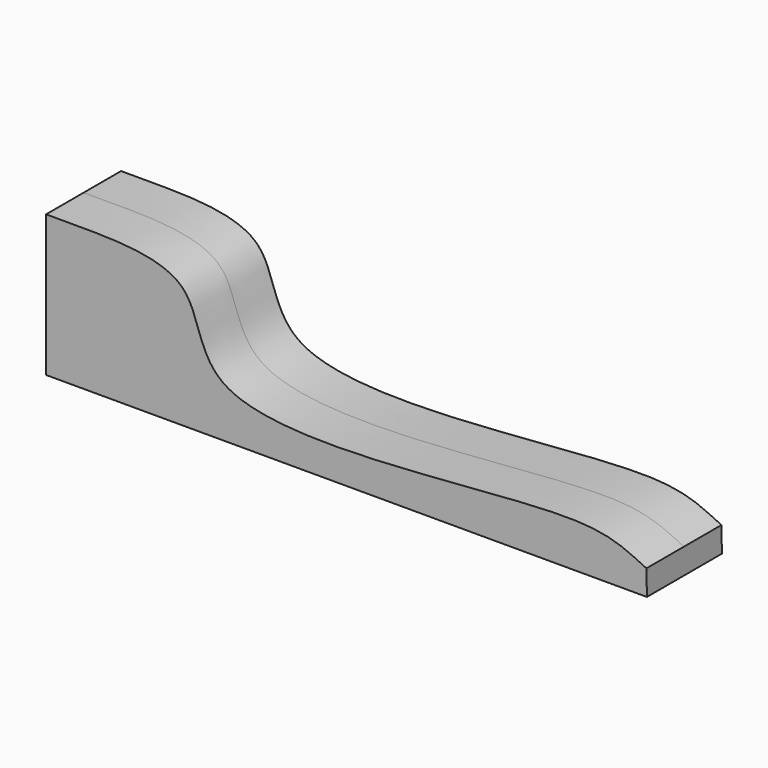
from build123d import *

# Parameters (mm, degrees)
F1_DEPTH = 22.225


with BuildPart() as f1:
    # F0 (on Front) → F1 (new body, symmetric)
    with BuildSketch(Plane.XZ):
        with BuildLine():
            Line((-145.4518437386, 46.4029982686), (-145.4518437386, -20.6778142601))
            Line((-145.4518437386, -20.6778142601), (139.4599825144, -20.6778142601))
            Line((139.4599825144, -20.6778142601), (139.2237767577, -8.7899017381))
            add(Edge.make_bspline(
                [(-145.4518437386, 46.4029982686), (-122.5710635523, 46.0837787975), (-69.0962275433, 50.0998458463), (-78.7688353067, -23.689586332), (109.7833412431, 9.1430988218), (130.3301739029, -4.7094518595), (139.2237767577, -8.7899017381)],
                knots=[0, 0, 0, 0, 0.2425951215, 0.4351173814, 0.822123626, 1, 1, 1, 1], degree=3))
        make_face()
    extrude(amount=F1_DEPTH, both=True)


solid = f1.part
